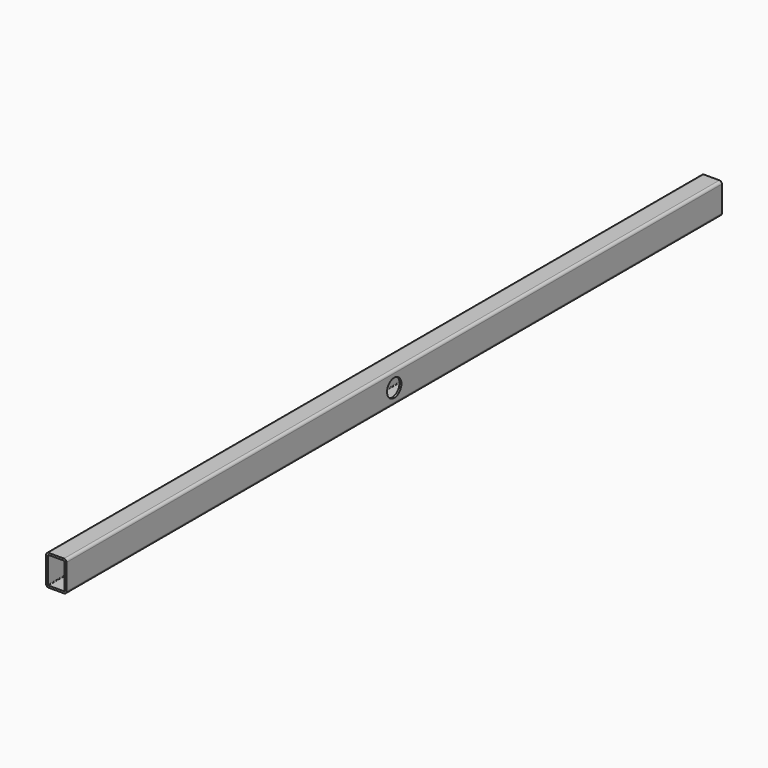
from build123d import *

# Parameters (mm, degrees)
F1_DEPTH = 2032
F2_R     = 22.225
F3_DEPTH = 50.801


with BuildPart() as f1:
    # F0 (on Front) → F1 (new body)
    with BuildSketch(Plane.XZ):
        with BuildLine():
            ThreePointArc((-84.238662, 22.99025), (-82.37879, 18.500122), (-77.888662, 16.64025))
            Line((-77.888662, 16.64025), (-39.788662, 16.64025))
            ThreePointArc((-39.788662, 16.64025), (-35.298534, 18.500122), (-33.438662, 22.99025))
            Line((-33.438662, 22.99025), (-33.438662, 86.49025))
            ThreePointArc((-33.438662, 86.49025), (-35.298534, 90.980378), (-39.788662, 92.84025))
            Line((-39.788662, 92.84025), (-77.888662, 92.84025))
            ThreePointArc((-77.888662, 92.84025), (-82.37879, 90.980378), (-84.238662, 86.49025))
            Line((-84.238662, 86.49025), (-84.238662, 22.99025))
        make_face()
        with BuildLine():
            ThreePointArc((-79.476162, 86.49025), (-79.011194, 87.612782), (-77.888662, 88.07775))
            Line((-77.888662, 88.07775), (-39.788662, 88.07775))
            ThreePointArc((-39.788662, 88.07775), (-38.66613, 87.612782), (-38.201162, 86.49025))
            Line((-38.201162, 86.49025), (-38.201162, 22.99025))
            ThreePointArc((-38.201162, 22.99025), (-38.66613, 21.867718), (-39.788662, 21.40275))
            Line((-39.788662, 21.40275), (-77.888662, 21.40275))
            ThreePointArc((-77.888662, 21.40275), (-79.011194, 21.867718), (-79.476162, 22.99025))
            Line((-79.476162, 22.99025), (-79.476162, 86.49025))
        make_face(mode=Mode.SUBTRACT)
    extrude(amount=F1_DEPTH)

    # F2 (on face) → F3 (cut, through all)
    with BuildSketch(Plane.YZ.offset(-33.438662)):
        with Locations((-1016, 54.74025)):
            Circle(F2_R)
    extrude(amount=-F3_DEPTH, mode=Mode.SUBTRACT)


solid = f1.part
